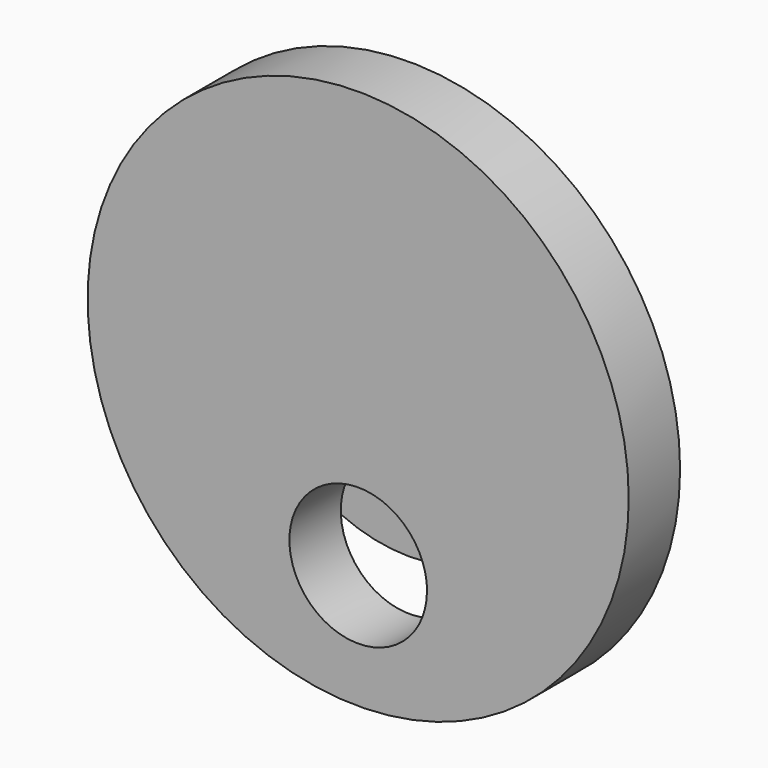
from build123d import *

# Parameters (mm, degrees)
F0_R     = 147.5
F1_DEPTH = 35
F2_R     = 50
F3_DEPTH = 56
F4_R     = 45
F5_DEPTH = 40
F7_DEPTH = 40
F8_R     = 90
F9_DEPTH = 40


with BuildPart() as f1:
    # F0 (on Front) → F1 (new body)
    with BuildSketch(Plane.XZ):
        Circle(F0_R)
    extrude(amount=F1_DEPTH)

    # F2 (on face) → F3 (join)
    with BuildSketch(Plane(origin=(0, 0, 0), x_dir=(-1, 0, 0), z_dir=(0, 1, 0))):
        Circle(F2_R)
    extrude(amount=F3_DEPTH)

    # F4 (on face) → F5 (join)
    with BuildSketch(Plane(origin=(0, 56, 0), x_dir=(-1, 0, 0), z_dir=(0, 1, 0))):
        Circle(F4_R)
    extrude(amount=F5_DEPTH)

    # F6 (on face) → F7 (cut)
    with BuildSketch(Plane.XZ.offset(35)):
        with BuildLine():
            ThreePointArc((36.4554849148, -71.2109375), (0, -80), (-36.4554849148, -71.2109375))
            ThreePointArc((-36.4554849148, -71.2109375), (-4.4254556656, -117.2379556656), (37.5, -80))
            ThreePointArc((37.5, -80), (37.2379556656, -75.5745443344), (36.4554849148, -71.2109375))
        make_face()
        with BuildLine():
            ThreePointArc((36.4554849148, -71.2109375), (0, -42.5), (-36.4554849148, -71.2109375))
            ThreePointArc((-36.4554849148, -71.2109375), (0, -80), (36.4554849148, -71.2109375))
        make_face()
    extrude(amount=-F7_DEPTH, mode=Mode.SUBTRACT)

    # F8 (on Front) → F9 (join)
    with BuildSketch(Plane.XZ):
        Circle(F8_R)
    extrude(amount=-F9_DEPTH)


solid = f1.part
